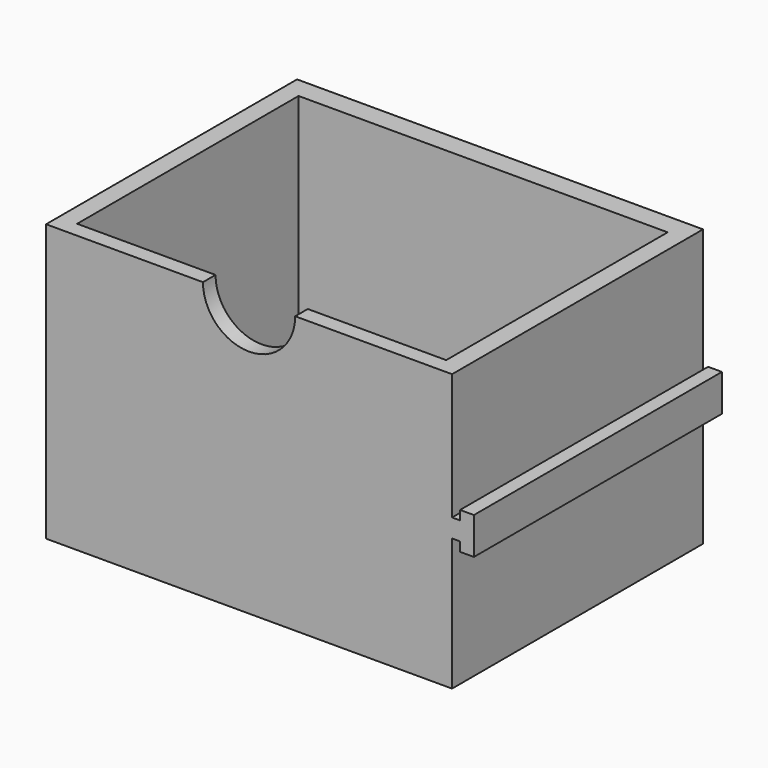
from build123d import *

# Parameters (mm, degrees)
F0_W     = 55.88
F0_H     = 38.1
F1_DEPTH = 43.18
F2_W     = 50.8
F2_H     = 38.1
F3_DEPTH = 35.56
F4_R     = 6.35
F5_DEPTH = 25.4
F6_R     = 3.2
F7_DEPTH = 1.6002
F9_DEPTH = 42.672


with BuildPart() as f1:
    # F0 (on Front) → F1 (new body)
    with BuildSketch(Plane.XZ):
        with Locations((-20.484024, 19.05)):
            Rectangle(F0_W, F0_H)
    extrude(amount=-F1_DEPTH)

    # F2 (on face) → F3 (cut)
    with BuildSketch(Plane.XY.offset(38.1)):
        with Locations((-20.484024, 21.216264)):
            Rectangle(F2_W, F2_H)
    extrude(amount=-F3_DEPTH, mode=Mode.SUBTRACT)

    # F4 (on face) → F5 (cut)
    with BuildSketch(Plane.XZ):
        with Locations((-20.484024, 38.1)):
            Circle(F4_R)
    extrude(amount=-F5_DEPTH, mode=Mode.SUBTRACT)

    # F6 (on face) → F7 (cut)
    with BuildSketch(Plane(origin=(0, 43.18, 0), x_dir=(-1, 0, 0), z_dir=(0, 1, 0))):
        with Locations((20.484024, 19.05)):
            Circle(F6_R)
    extrude(amount=-F7_DEPTH, mode=Mode.SUBTRACT)

    # F8 (on face) → F9 (join)
    with BuildSketch(Plane.XZ):
        Polygon((8.556618, 22.011659), (8.556618, 20.741659), (7.455976, 20.741659), (7.455976, 18.201659), (8.556618, 18.201659), (8.556618, 16.931659), (10.461618, 16.931659), (10.461618, 22.011659), align=None)
    extrude(amount=-F9_DEPTH)


solid = f1.part
